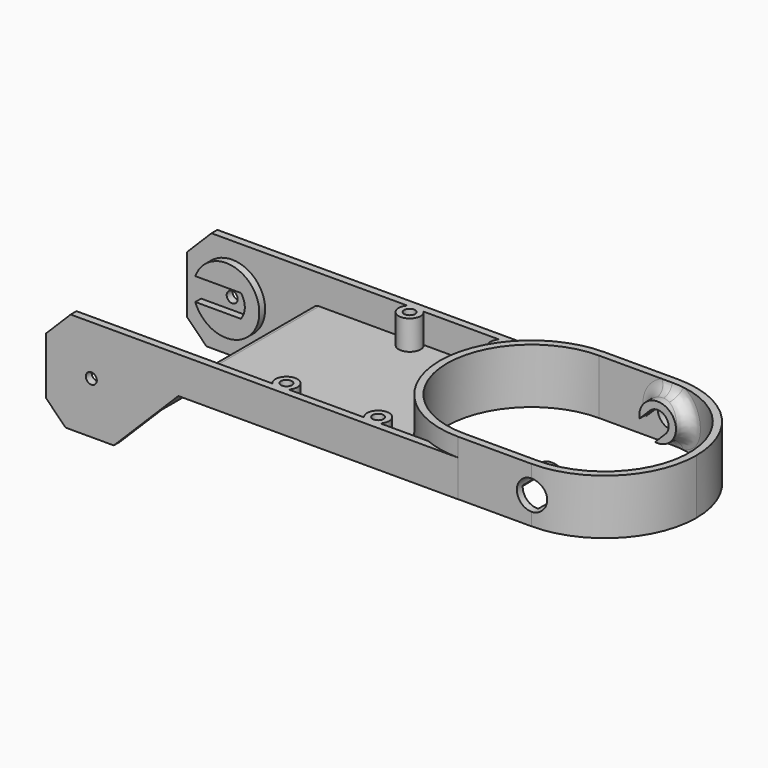
from build123d import *

# Parameters (mm, degrees)
PAD_DEPTH       = 50
THICKNESS_T     = -2
SKETCH027_W     = 46
SKETCH027_H     = 57.914125
POCKET_DEPTH    = 30
POCKET010_DEPTH = 27.5968382966
PAD016_DEPTH    = 15
SKETCH031_R     = 5
PAD017_DEPTH    = 5
SKETCH030_R     = 4
POCKET011_DEPTH = 5
SKETCH032_R     = 3
POCKET012_DEPTH = 5
FILLET004_R     = 3
POCKET013_DEPTH = 5
PAD024_DEPTH    = 2
SKETCH041_R     = 1.5
POCKET014_DEPTH = 5
SKETCH042_R     = 3
PAD025_DEPTH    = 8
SKETCH043_R     = 1.5
POCKET015_DEPTH = 27.5968382966
SKETCH044_W     = 275.959938
SKETCH044_H     = 98.407677
POCKET016_DEPTH = 32.5968382966


with BuildPart() as part:
    # Sketch → Pad (new body)
    with BuildSketch(Plane.XZ):
        Polygon((23.7279998632, 3.5), (100, 3.5), (100, 13.5), (-5.6344237604, 13.5), (-12.3352875493, 6.799136211), (-12.3352875493, -8.7656854646), (-7.0051347173, -14.0958382966), (6.1321615666, -14.0958382966), align=None)
    extrude(amount=-PAD_DEPTH)

    # Thickness
    thickness_openings = [part.faces().sort_by_distance(p)[0] for p in [
        (47.182788, 25, 13.5),
    ]]
    offset(amount=THICKNESS_T, openings=thickness_openings)

    # Sketch027 (on Face5 of Thickness) → Pocket (cut)
    with BuildSketch(Plane(origin=(-12.3352875493, 0, 0), x_dir=(0, -1, 0), z_dir=(-1, 0, 0))):
        with Locations((-25, 7.1137385)):
            Rectangle(SKETCH027_W, SKETCH027_H)
    extrude(amount=-POCKET_DEPTH, mode=Mode.SUBTRACT)

    # Sketch028 (on Face10 of Thickness) → Pocket010 (cut, through all)
    with BuildSketch(Plane.XY.offset(13.5)):
        with BuildLine():
            ThreePointArc((100, 48), (77, 25), (100, 2))
            Line((100, 2), (120, 2))
            ThreePointArc((120, 2), (143, 25), (120, 48))
            Line((100, 48), (120, 48))
        make_face()
    extrude(amount=-POCKET010_DEPTH, mode=Mode.SUBTRACT)

    # Sketch029 (on Face15 of Pocket010) → Pad016 (join)
    with BuildSketch(Plane.XY.offset(3.5)):
        with BuildLine():
            ThreePointArc((100, 50), (75.0193775, 25.0193775), (100, 0.038755))
            Line((100, 0.038755), (120, 0.038755))
            ThreePointArc((120, 0.038755), (144.9806225, 25.0193775), (120, 50))
            Line((100, 50), (120, 50))
        make_face()
        with BuildLine():
            ThreePointArc((100, 48), (77, 25), (100, 2))
            Line((100, 2), (120, 2))
            ThreePointArc((120, 2), (143, 25), (120, 48))
            Line((100, 48), (120, 48))
        make_face(mode=Mode.SUBTRACT)
    extrude(amount=PAD016_DEPTH)

    # Sketch031 (on Face21 of Pad016) → Pad017 (join)
    with BuildSketch(Plane(origin=(0, 2, 0), x_dir=(-1, 0, 0), z_dir=(0, 1, 0))):
        with Locations((-120, 11)):
            Circle(SKETCH031_R)
    extrude(amount=PAD017_DEPTH)

    # Sketch030 (on Face9 of Pad016) → Pocket011 (cut)
    with BuildSketch(Plane.XZ.offset(-0.038755)):
        with Locations((120, 11)):
            Circle(SKETCH030_R)
    extrude(amount=-POCKET011_DEPTH, mode=Mode.SUBTRACT)

    # Sketch032 (on Face33 of Pocket011) → Pocket012 (cut)
    with BuildSketch(Plane(origin=(0, 7, 0), x_dir=(-1, 0, 0), z_dir=(0, 1, 0))):
        with Locations((-120, 11)):
            Circle(SKETCH032_R)
    extrude(amount=-POCKET012_DEPTH, mode=Mode.SUBTRACT)

    # Fillet004
    fillet004_edges = [part.edges().sort_by_distance(p)[0] for p in [
        (125, 2.550056, 11),
        (116.464466, 2, 14.535534),
    ]]
    fillet(fillet004_edges, radius=FILLET004_R)

    # Sketch039 (on Face2 of Fillet004) → Pocket013 (cut)
    with BuildSketch(Plane(origin=(0, 2, 0), x_dir=(-1, 0, 0), z_dir=(0, 1, 0))):
        with BuildLine():
            ThreePointArc((-117.8786796564, 13.1213203436), (-122.1213203436, 13.1213203436), (-122.1213203436, 8.8786796564))
            Line((-122.1213203436, 8.8786796564), (-115.7738678436, 2.5312271564))
            ThreePointArc((-115.7738678436, 2.5312271564), (-111.5312271564, 2.5312271564), (-111.5312271564, 6.7738678436))
            Line((-117.8786796564, 13.1213203436), (-111.5312271564, 6.7738678436))
        make_face()
    extrude(amount=POCKET013_DEPTH, mode=Mode.SUBTRACT)

    # Sketch040 (on Face22 of Pocket013) → Pad024 (join)
    with BuildSketch(Plane(origin=(0, 2, 0), x_dir=(-1, 0, 0), z_dir=(0, 1, 0))):
        with BuildLine():
            ThreePointArc((-3.9865398531, 3.1), (-5.05, 0), (-3.9865398531, -3.1))
            Line((-3.9865398531, -3.1), (8.4492603227, -3.1))
            ThreePointArc((8.4492603227, 3.1), (-9, 0), (8.4492603227, -3.1))
            Line((8.4492603227, 3.1), (-3.9865398531, 3.1))
        make_face()
    extrude(amount=PAD024_DEPTH)

    # Sketch041 (on Face28 of Pad024) → Pocket014 (cut)
    with BuildSketch(Plane(origin=(0, 2, 0), x_dir=(-1, 0, 0), z_dir=(0, 1, 0))):
        Circle(SKETCH041_R)
    extrude(amount=-POCKET014_DEPTH, mode=Mode.SUBTRACT)

    # Sketch042 (on Face45 of Pocket014) → Pad025 (join)
    with BuildSketch(Plane.XY.offset(5.5)):
        with Locations((50, 4)):
            Circle(SKETCH042_R)
        with Locations((75, 4)):
            Circle(SKETCH042_R)
    extrude(amount=PAD025_DEPTH)

    # Sketch043 (on Face52 of Pad025) → Pocket015 (cut, through all)
    with BuildSketch(Plane.XY.offset(13.5)):
        with Locations((50, 4)):
            Circle(SKETCH043_R)
        with Locations((75, 4)):
            Circle(SKETCH043_R)
    extrude(amount=-POCKET015_DEPTH, mode=Mode.SUBTRACT)

    # Sketch044 (on Face31 of Pocket015) → Pocket016 (cut, through all)
    with BuildSketch(Plane.XY.offset(18.5)):
        with Locations((20.339153, 74.2038385)):
            Rectangle(SKETCH044_W, SKETCH044_H)
    extrude(amount=-POCKET016_DEPTH, mode=Mode.SUBTRACT)

    # Mirrored: part across face of Pocket016


with BuildPart() as part_1:
    add(part.part)
    add(part.part.mirror(Plane(origin=(143.9903074922, 25, 11), x_dir=(-1, 0, 0), z_dir=(0, 1, 0))))


solid = part_1.part
